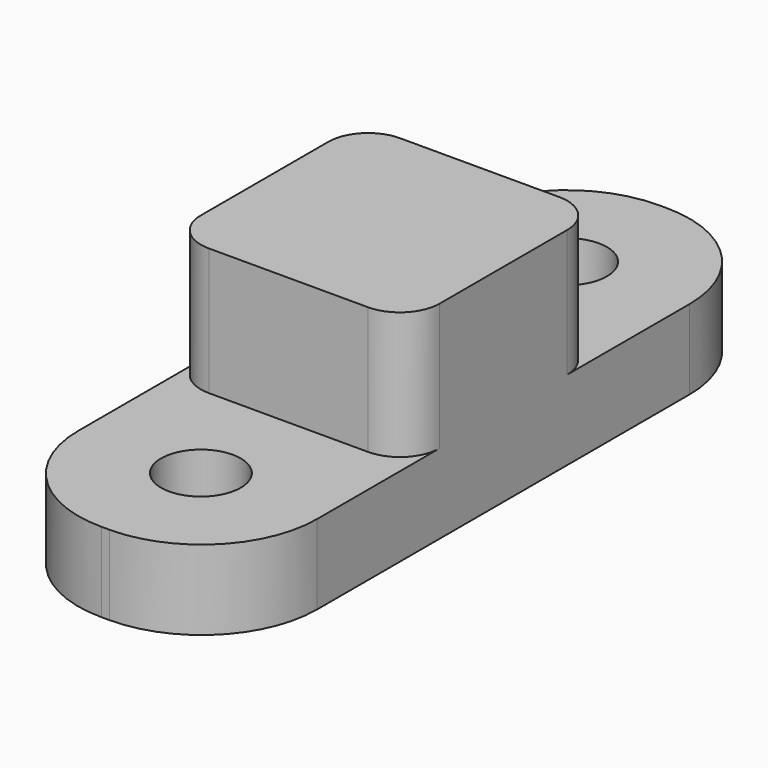
from build123d import *

# Parameters (mm, degrees)
SKETCH043_W  = 6
SKETCH043_H  = 17.5
SKETCH043_R  = 1
PAD017_DEPTH = 2
SKETCH044_W  = 6
SKETCH044_H  = 6
PAD018_DEPTH = 3.2
FILLET_R     = 2.9
FILLET001_R  = 1


with BuildPart() as part:
    # Sketch043 (on DatumPlane) → Pad017 (new body)
    with BuildSketch(Plane.XY.offset(-0.600022)):
        with Locations((-52.375043, 2.025062)):
            Rectangle(SKETCH043_W, SKETCH043_H)
        with Locations((-52.375043, 7.775062)):
            Circle(SKETCH043_R, mode=Mode.SUBTRACT)
        with Locations((-52.375043, -3.724938)):
            Circle(SKETCH043_R, mode=Mode.SUBTRACT)
    extrude(amount=PAD017_DEPTH)

    # Sketch044 (on Face8 of Pad017) → Pad018 (join)
    with BuildSketch(Plane.XY.offset(1.399978)):
        with Locations((-52.375043, 2.025062)):
            Rectangle(SKETCH044_W, SKETCH044_H)
    extrude(amount=PAD018_DEPTH)

    # Fillet
    fillet_edges = [part.edges().sort_by_distance(p)[0] for p in [
        (-49.375043, 10.775062, 0.399978),
        (-55.375043, 10.775062, 0.399978),
        (-49.375043, -6.724938, 0.399978),
        (-55.375043, -6.724938, 0.399978),
    ]]
    fillet(fillet_edges, radius=FILLET_R)

    # Fillet001
    fillet001_edges = [part.edges().sort_by_distance(p)[0] for p in [
        (-49.375043, -0.974938, 2.999978),
        (-55.375043, -0.974938, 2.999978),
        (-49.375043, 5.025062, 2.999978),
        (-55.375043, 5.025062, 2.999978),
    ]]
    fillet(fillet001_edges, radius=FILLET001_R)


solid = part.part
